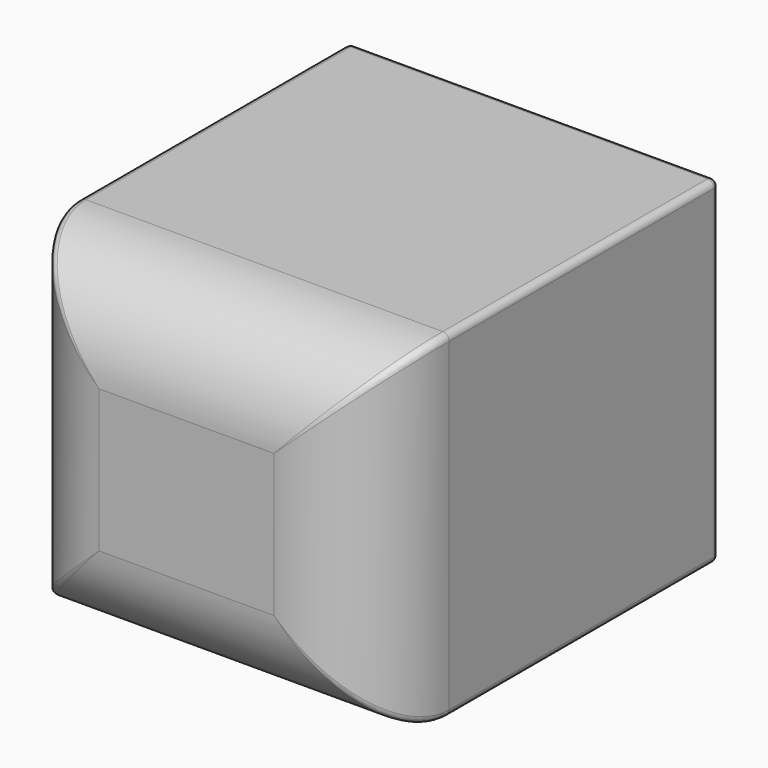
from build123d import *

# Parameters (mm, degrees)
F0_W     = 57
F0_H     = 52
F1_DEPTH = 67
F2_R     = 15
F3_T     = -2
F4_R     = 1
F5_R     = 1
F6_R     = 1


with BuildPart() as f1:
    # F0 (on Front) → F1 (new body)
    with BuildSketch(Plane.XZ):
        Rectangle(F0_W, F0_H)
    extrude(amount=F1_DEPTH)

    # F2
    f2_edges = [f1.edges().sort_by_distance(p)[0] for p in [
        (0, -67, 26),
        (-28.5, -67, 0),
        (0, -67, -26),
        (28.5, -67, 0),
    ]]
    fillet(f2_edges, radius=F2_R)

    # F3
    f3_openings = [f1.faces().sort_by_distance(p)[0] for p in [
        (0, 0, 0),
    ]]
    offset(amount=F3_T, openings=f3_openings)

    # F4
    f4_edges = [f1.edges().sort_by_distance(p)[0] for p in [
        (-28.5, 0, 0),
    ]]
    fillet(f4_edges, radius=F4_R)

    # F5
    f5_edges = [f1.edges().sort_by_distance(p)[0] for p in [
        (28.5, 0, 0),
    ]]
    fillet(f5_edges, radius=F5_R)

    # F6
    f6_edges = [f1.edges().sort_by_distance(p)[0] for p in [
        (28.5, -26.5, 26),
        (28.5, -26.5, -26),
        (-28.5, -26.5, 26),
        (-28.5, -26.5, -26),
    ]]
    fillet(f6_edges, radius=F6_R)


solid = f1.part
